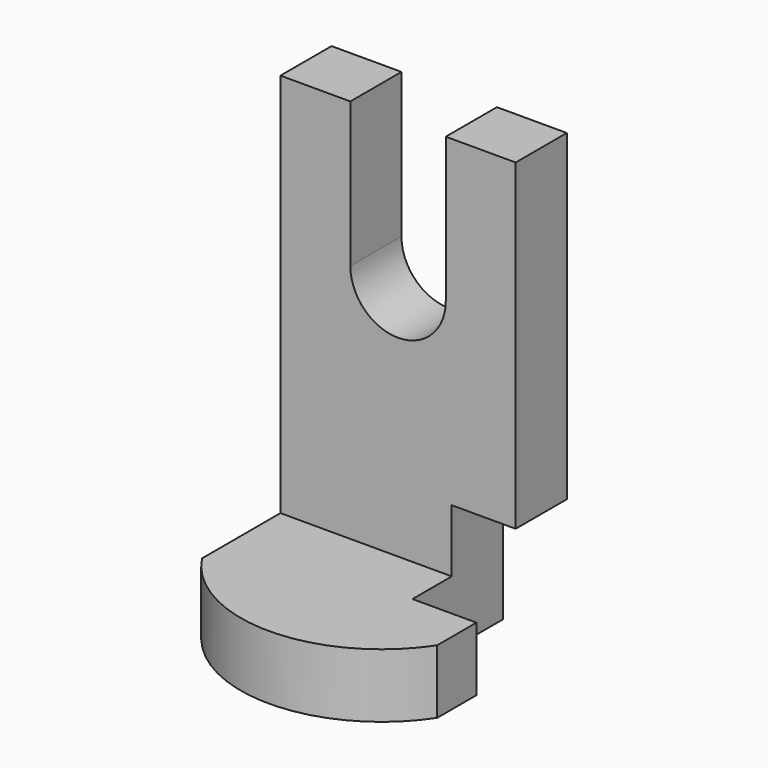
from build123d import *

# Parameters (mm, degrees)
F0_W     = 65.433032
F0_H     = 107.144848
F1_DEPTH = 17.78
F2_W     = 65.433032
F2_H     = 45.072302
F3_DEPTH = 17.78
F5_DEPTH = 17.78
F7_DEPTH = 25.4


with BuildPart() as f1:
    # F0 (on Front) → F1 (new body)
    with BuildSketch(Plane.XZ):
        Rectangle(F0_W, F0_H)
    extrude(amount=F1_DEPTH)

    # F2 (on face) → F3 (join)
    with BuildSketch(Plane(origin=(0, 0, -53.572424), x_dir=(1, 0, 0), z_dir=(0, 0, -1))):
        with Locations((0, 22.536151)):
            Rectangle(F2_W, F2_H)
        with BuildLine():
            ThreePointArc((32.716516, 45.072302), (0, 62.674601), (-32.716516, 45.072302))
            Line((-32.716516, 45.072302), (32.716516, 45.072302))
        make_face()
    extrude(amount=F3_DEPTH)

    # F4 (on face) → F5 (cut)
    with BuildSketch(Plane.YZ.offset(32.716516)):
        Polygon((0, -71.352424), (0, -36.141511), (-17.78, -36.141511), (-17.78, -53.572424), (-31.426151, -53.572424), (-31.426151, -71.352424), align=None)
    extrude(amount=-F5_DEPTH, mode=Mode.SUBTRACT)

    # F6 (on face) → F7 (cut)
    with BuildSketch(Plane.XZ.offset(17.78)):
        with BuildLine():
            Line((13.273248, 13.279006), (13.273248, 93.865842))
            Line((13.273248, 93.865842), (-13.273248, 93.865842))
            Line((-13.273248, 93.865842), (-13.273248, 13.279006))
            ThreePointArc((-13.273248, 13.279006), (0, 0.005758), (13.273248, 13.279006))
        make_face()
    extrude(amount=-F7_DEPTH, mode=Mode.SUBTRACT)


solid = f1.part
